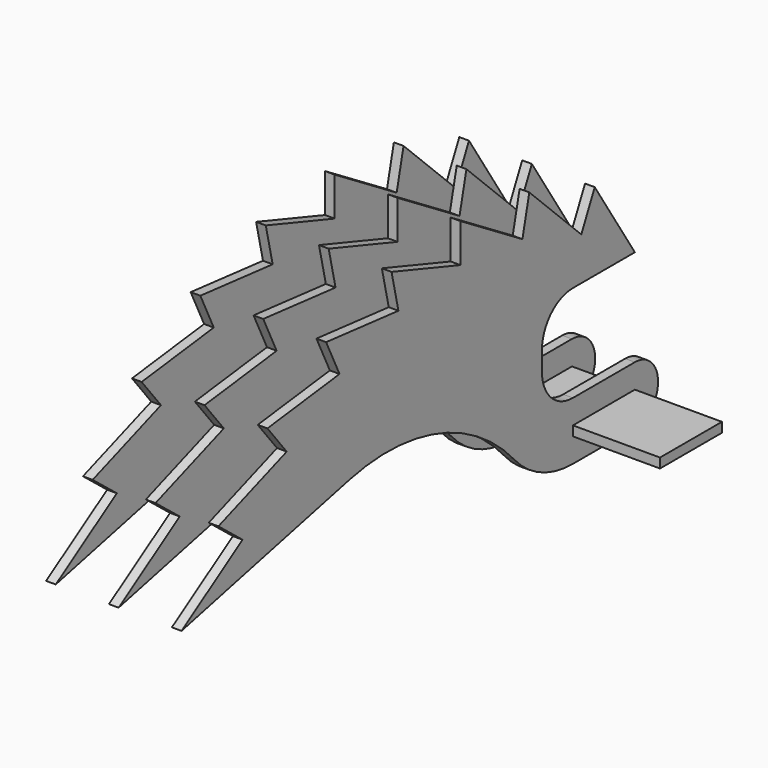
from build123d import *

# Parameters (mm, degrees)
F1_DEPTH      = 1.5875
F1_DEPTH_BACK = 1.5875
F2_START      = 17.4625
F2_DEPTH      = 3.175
F3_START      = 17.4625
F3_DEPTH      = 3.175
F4_W          = 25.4
F4_H          = 3.175
F5_DEPTH      = 50.8
F5_DEPTH_BACK = 50.8


with BuildPart() as f1:
    # F0 (on Right) → F1 (new body, two sides)
    with BuildSketch(Plane.YZ) as f1_sk:
        with BuildLine():
            Line((-89.3638715037, 71.2642159143), (-114.423321003, 55.102664279))
            Line((-114.423321003, 55.102664279), (-45.394477118, 70.8098596439))
            ThreePointArc((-45.394477118, 70.8098596439), (-8.5270592577, 69.1620720095), (22.3122345378, 48.8923985547))
            ThreePointArc((22.3122345378, 48.8923985547), (33.0733487312, 40.9236595167), (46.1626316513, 38.0999999807))
            Line((46.1626316513, 38.0999999807), (71.5626337911, 38.0999999807))
            ThreePointArc((71.5626337911, 38.0999999807), (81.0876337911, 47.6249999807), (71.5626337911, 57.1499999807))
            Line((71.5626337911, 57.1499999807), (46.1626316513, 57.1499999807))
            ThreePointArc((46.1626316513, 57.1499999807), (37.1823755302, 60.8697438596), (33.4626316513, 69.8499999807))
            Line((33.4626316513, 69.8499999807), (33.4626316513, 76.1999999807))
            ThreePointArc((33.4626316513, 76.1999999807), (37.1823762868, 85.1802568583), (46.1626337911, 88.8999999807))
            Line((46.1626337911, 88.8999999807), (71.5626337911, 88.8999999807))
            Line((71.5626337911, 88.8999999807), (71.2626562096, 89.3651152853))
            Line((71.2626562096, 89.3651152853), (55.1006672069, 114.4242827085))
            Line((55.1006672069, 114.4242827085), (49.5906004862, 102.9818544376))
            Line((49.5906004862, 102.9818544376), (28.2576888992, 123.8164085171))
            Line((28.2576888992, 123.8164085171), (25.4319200093, 111.4347676654))
            Line((25.4319200093, 111.4347676654), (-0.0022165681, 126.9999999807))
            Line((-0.0022165681, 126.9999999807), (-0.0019949113, 114.2999999826))
            Line((-0.0019949113, 114.2999999826), (-28.26201089, 123.8154220623))
            Line((-28.26201089, 123.8154220623), (-25.435809801, 111.433879856))
            Line((-25.435809801, 111.433879856), (-55.1046613343, 114.4223592627))
            Line((-55.1046613343, 114.4223592627), (-49.5941952009, 102.9801233364))
            Line((-49.5941952009, 102.9801233364), (-79.184195108, 99.2918085499))
            Line((-79.184195108, 99.2918085499), (-71.2657755972, 89.3626276949))
            Line((-71.2657755972, 89.3626276949), (-99.2931905596, 79.1824621269))
            Line((-99.2931905596, 79.1824621269), (-89.3638715037, 71.2642159143))
        make_face()
    extrude(amount=F1_DEPTH)
    extrude(f1_sk.sketch, amount=-F1_DEPTH_BACK)



with BuildPart() as f2:
    # F1_face (on face) → F2 (new body)
    with BuildSketch(Plane(origin=(1.5875, -4.3675464113, 83.8957908955), x_dir=(0, 1, 0), z_dir=(1, 0, 0)).offset(F2_START)):
        with BuildLine():
            Line((-94.9256441483, -4.7133287685), (-84.9963250924, -12.6315749812))
            Line((-84.9963250924, -12.6315749812), (-110.0557745917, -28.7931266165))
            Line((-110.0557745917, -28.7931266165), (-41.0269307067, -13.0859312515))
            ThreePointArc((-41.0269307067, -13.0859312515), (-4.1595128464, -14.733718886), (26.6797809491, -35.0033923408))
            ThreePointArc((26.6797809491, -35.0033923408), (37.4408951425, -42.9721313788), (50.5301780626, -45.7957909148))
            Line((50.5301780626, -45.7957909148), (75.9301802024, -45.7957909148))
            ThreePointArc((75.9301802024, -45.7957909148), (85.4551802024, -36.2707909148), (75.9301802024, -26.7457909148))
            Line((75.9301802024, -26.7457909148), (50.5301780626, -26.7457909148))
            ThreePointArc((50.5301780626, -26.7457909148), (41.5499219415, -23.0260470359), (37.8301780626, -14.0457909148))
            Line((37.8301780626, -14.0457909148), (37.8301780626, -7.6957909148))
            ThreePointArc((37.8301780626, -7.6957909148), (41.5499226981, 1.2844659628), (50.5301802024, 5.0042090852))
            Line((50.5301802024, 5.0042090852), (75.9301802024, 5.0042090852))
            Line((75.9301802024, 5.0042090852), (59.4682136182, 30.528491813))
            Line((59.4682136182, 30.528491813), (53.9581468975, 19.0860635422))
            Line((53.9581468975, 19.0860635422), (32.6252353105, 39.9206176217))
            Line((32.6252353105, 39.9206176217), (29.7994664206, 27.5389767699))
            Line((29.7994664206, 27.5389767699), (4.3653298432, 43.1042090852))
            Line((4.3653298432, 43.1042090852), (4.3655515, 30.4042090871))
            Line((4.3655515, 30.4042090871), (-23.8944644787, 39.9196311668))
            Line((-23.8944644787, 39.9196311668), (-21.0682633897, 27.5380889606))
            Line((-21.0682633897, 27.5380889606), (-50.737114923, 30.5265683672))
            Line((-50.737114923, 30.5265683672), (-45.2266487895, 19.0843324409))
            Line((-45.2266487895, 19.0843324409), (-74.8166486967, 15.3960176544))
            Line((-74.8166486967, 15.3960176544), (-66.8982291859, 5.4668367994))
            Line((-66.8982291859, 5.4668367994), (-94.9256441483, -4.7133287685))
        make_face()
    extrude(amount=F2_DEPTH)


with BuildPart() as f3:
    # F1_face1 (on face) → F3 (new body)
    with BuildSketch(Plane(origin=(-1.5875, -4.3675464113, 83.8957908955), x_dir=(0, 1, 0), z_dir=(-1, 0, 0)).offset(F3_START)):
        with BuildLine():
            Line((-84.9963250924, 12.6315749812), (-94.9256441483, 4.7133287685))
            Line((-94.9256441483, 4.7133287685), (-66.8982291859, -5.4668367994))
            Line((-66.8982291859, -5.4668367994), (-74.8166486967, -15.3960176544))
            Line((-74.8166486967, -15.3960176544), (-45.2266487895, -19.0843324409))
            Line((-45.2266487895, -19.0843324409), (-50.737114923, -30.5265683672))
            Line((-50.737114923, -30.5265683672), (-21.0682633897, -27.5380889606))
            Line((-21.0682633897, -27.5380889606), (-23.8944644787, -39.9196311668))
            Line((-23.8944644787, -39.9196311668), (4.3655515, -30.4042090871))
            Line((4.3655515, -30.4042090871), (4.3653298432, -43.1042090852))
            Line((4.3653298432, -43.1042090852), (29.7994664206, -27.5389767699))
            Line((29.7994664206, -27.5389767699), (32.6252353105, -39.9206176217))
            Line((32.6252353105, -39.9206176217), (53.9581468975, -19.0860635422))
            Line((53.9581468975, -19.0860635422), (59.4682136182, -30.528491813))
            Line((59.4682136182, -30.528491813), (75.9301802024, -5.0042090852))
            Line((75.9301802024, -5.0042090852), (50.5301802024, -5.0042090852))
            ThreePointArc((50.5301802024, -5.0042090852), (41.5499226981, -1.2844659628), (37.8301780626, 7.6957909148))
            Line((37.8301780626, 7.6957909148), (37.8301780626, 14.0457909148))
            ThreePointArc((37.8301780626, 14.0457909148), (41.5499219415, 23.0260470359), (50.5301780626, 26.7457909148))
            Line((50.5301780626, 26.7457909148), (75.9301802024, 26.7457909148))
            ThreePointArc((75.9301802024, 26.7457909148), (85.4551802024, 36.2707909148), (75.9301802024, 45.7957909148))
            Line((75.9301802024, 45.7957909148), (50.5301780626, 45.7957909148))
            ThreePointArc((50.5301780626, 45.7957909148), (37.4408951425, 42.9721313788), (26.6797809491, 35.0033923408))
            ThreePointArc((26.6797809491, 35.0033923408), (-4.1595128464, 14.733718886), (-41.0269307067, 13.0859312515))
            Line((-41.0269307067, 13.0859312515), (-110.0557745917, 28.7931266165))
            Line((-110.0557745917, 28.7931266165), (-84.9963250924, 12.6315749812))
        make_face()
    extrude(amount=F3_DEPTH)


with BuildPart() as f1_1:
    add(f1.part)

    add(f2.part)  # F5 merges F2

    add(f3.part)  # F5 merges F3
    # F4 (on face) → F5 (join, two sides)
    with BuildSketch(Plane.YZ) as f5_sk:
        with Locations((58.8626337911, 47.6249999807)):
            Rectangle(F4_W, F4_H)
    extrude(amount=F5_DEPTH)
    extrude(f5_sk.sketch, amount=-F5_DEPTH_BACK)


solid = f1_1.part
